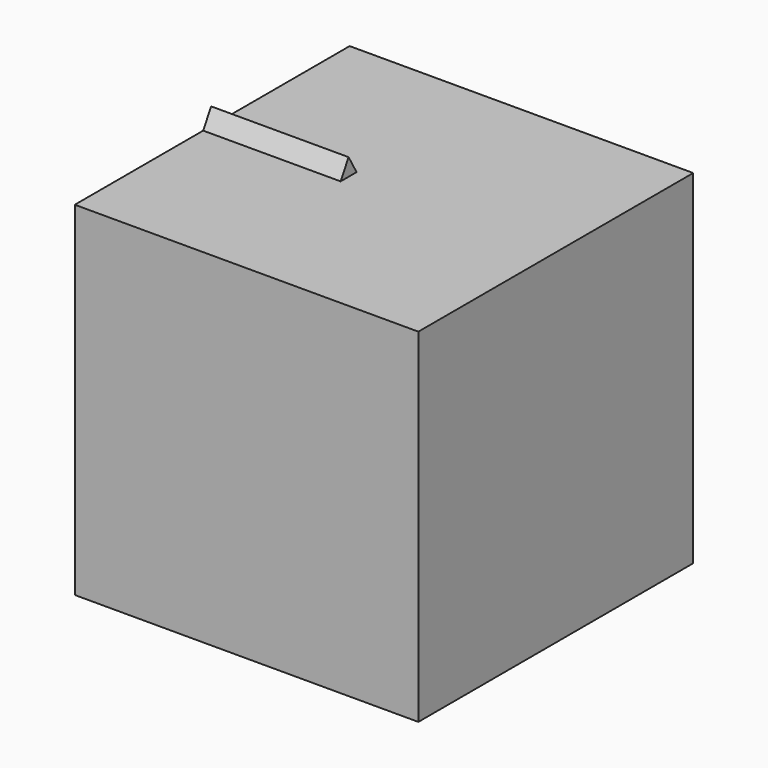
from build123d import *

# Parameters (mm, degrees)
F1_W     = 127
F1_H     = 127
F2_DEPTH = 127
F3_DEPTH = 50.8


with BuildPart() as f2:
    # F1 (on Right) → F2 (new body)
    with BuildSketch(Plane.YZ):
        with Locations((0.485125, 1.110753)):
            Rectangle(F1_W, F1_H)
    extrude(amount=F2_DEPTH)


with BuildPart() as f3:
    # F0 (on Right) → F3 (new body)
    with BuildSketch(Plane.YZ):
        Polygon((0, 71.005057), (-61.492183, -35.502529), (61.492183, -35.502529), align=None)
    extrude(amount=F3_DEPTH)


solid = Compound([f2.part, f3.part])
